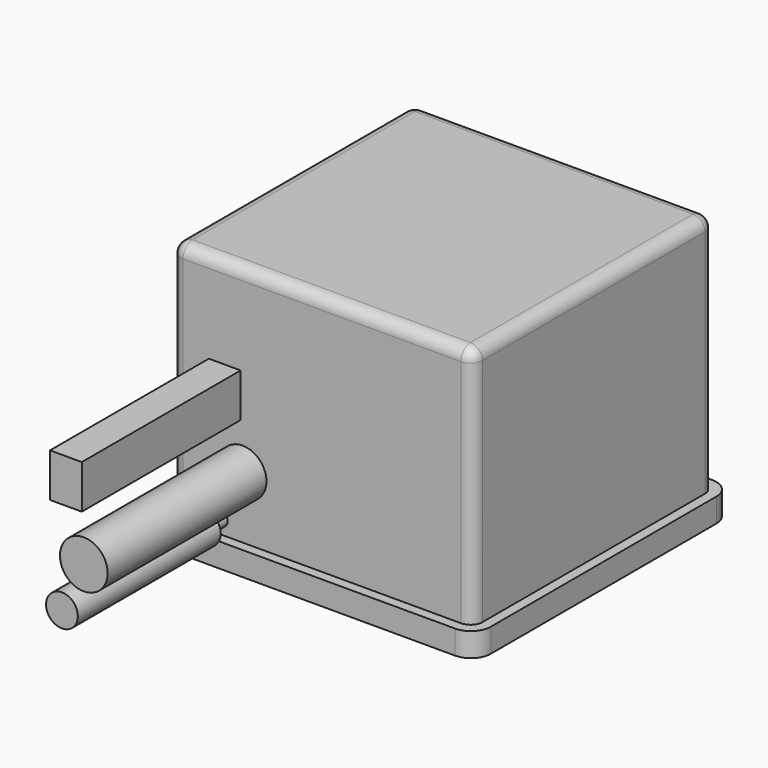
from build123d import *

# Parameters (mm, degrees)
CYLINDER042_R          = 4
CYLINDER042_DEPTH      = 61
CYLINDER042_ROLL_ANGLE = 90
CYLINDER047_R          = 4
CYLINDER047_DEPTH      = 45
CYLINDER047_ROLL_ANGLE = 90
CYLINDER045_R          = 1.75
CYLINDER045_DEPTH      = 31
CYLINDER045_ROLL_ANGLE = 90
CYLINDER046_R          = 4
CYLINDER046_DEPTH      = 45
CYLINDER046_ROLL_ANGLE = 90
CYLINDER043_R          = 6
CYLINDER043_DEPTH      = 63
CYLINDER043_ROLL_ANGLE = 90
BOX038_W               = 8
BOX038_H               = 58
BOX038_DEPTH           = 11
CYLINDER044_R          = 1.75
CYLINDER044_DEPTH      = 23
CYLINDER044_ROLL_ANGLE = 90
BOX040_W               = 81
BOX040_H               = 81
BOX040_DEPTH           = 6
FILLET018008_R         = 5
BOX039_W               = 76
BOX039_H               = 76
BOX039_DEPTH           = 66
FILLET018007_R         = 3


with BuildPart() as cylinder096:
    # Cylinder042 → Cylinder042 (new body)
    with BuildSketch(Plane.XY):
        Circle(CYLINDER042_R)
    extrude(amount=CYLINDER042_DEPTH)


with BuildPart() as cylinder096_1:
    # Cylinder042 roll: moved
    add(cylinder096.part.rotate(Axis((0, 0, 0), (1, 0, 0)), CYLINDER042_ROLL_ANGLE))


with BuildPart() as cylinder096_2:
    # Cylinder042 placement: moved
    add(cylinder096_1.part.moved(Location((-5, 124, 89.6))))


with BuildPart() as cylinder101:
    # Cylinder047 → Cylinder047 (new body)
    with BuildSketch(Plane.XY):
        Circle(CYLINDER047_R)
    extrude(amount=CYLINDER047_DEPTH)


with BuildPart() as cylinder101_1:
    # Cylinder047 roll: moved
    add(cylinder101.part.rotate(Axis((0, 0, 0), (1, 0, 0)), CYLINDER047_ROLL_ANGLE))


with BuildPart() as cylinder101_2:
    # Cylinder047 placement: moved
    add(cylinder101_1.part.moved(Location((-8.5, 124, 71.5))))


with BuildPart() as cylinder099:
    # Cylinder045 → Cylinder045 (new body)
    with BuildSketch(Plane.XY):
        Circle(CYLINDER045_R)
    extrude(amount=CYLINDER045_DEPTH)


with BuildPart() as cylinder099_1:
    # Cylinder045 roll: moved
    add(cylinder099.part.rotate(Axis((0, 0, 0), (1, 0, 0)), CYLINDER045_ROLL_ANGLE))


with BuildPart() as cylinder099_2:
    # Cylinder045 placement: moved
    add(cylinder099_1.part.moved(Location((-8.5, 94, 71.5))))


with BuildPart() as cylinder100:
    # Cylinder046 → Cylinder046 (new body)
    with BuildSketch(Plane.XY):
        Circle(CYLINDER046_R)
    extrude(amount=CYLINDER046_DEPTH)


with BuildPart() as cylinder100_1:
    # Cylinder046 roll: moved
    add(cylinder100.part.rotate(Axis((0, 0, 0), (1, 0, 0)), CYLINDER046_ROLL_ANGLE))


with BuildPart() as cylinder100_2:
    # Cylinder046 placement: moved
    add(cylinder100_1.part.moved(Location((-8.5, -7, 71.5))))


with BuildPart() as cylinder097:
    # Cylinder043 → Cylinder043 (new body)
    with BuildSketch(Plane.XY):
        Circle(CYLINDER043_R)
    extrude(amount=CYLINDER043_DEPTH)


with BuildPart() as cylinder097_1:
    # Cylinder043 roll: moved
    add(cylinder097.part.rotate(Axis((0, 0, 0), (1, 0, 0)), CYLINDER043_ROLL_ANGLE))


with BuildPart() as cylinder097_2:
    # Cylinder043 placement: moved
    add(cylinder097_1.part.moved(Location((-3, 11, 83.5))))


with BuildPart() as cube037:
    # Box038 → Box038 (new body)
    with BuildSketch(Plane(origin=(-11.5, -52, 95), x_dir=(1, 0, 0), z_dir=(0, 0, 1))):
        with Locations((4, 29)):
            Rectangle(BOX038_W, BOX038_H)
    extrude(amount=BOX038_DEPTH)


with BuildPart() as cylinder098:
    # Cylinder044 → Cylinder044 (new body)
    with BuildSketch(Plane.XY):
        Circle(CYLINDER044_R)
    extrude(amount=CYLINDER044_DEPTH)


with BuildPart() as cylinder098_1:
    # Cylinder044 roll: moved
    add(cylinder098.part.rotate(Axis((0, 0, 0), (1, 0, 0)), CYLINDER044_ROLL_ANGLE))


with BuildPart() as cylinder098_2:
    # Cylinder044 placement: moved
    add(cylinder098_1.part.moved(Location((-8.5, 1, 71.5))))


with BuildPart() as fillet018008:
    # Box040 → Box040 (new body)
    with BuildSketch(Plane(origin=(-23.5, -4.5, 63), x_dir=(1, 0, 0), z_dir=(0, 0, 1))):
        with Locations((40.5, 40.5)):
            Rectangle(BOX040_W, BOX040_H)
    extrude(amount=BOX040_DEPTH)

    # Fillet018008
    fillet018008_edges = [fillet018008.edges().sort_by_distance(p)[0] for p in [
        (-23.5, -4.5, 66),
        (-23.5, 76.5, 66),
        (57.5, -4.5, 66),
        (57.5, 76.5, 66),
    ]]
    fillet(fillet018008_edges, radius=FILLET018008_R)


with BuildPart() as fillet018008_1:
    # Fillet018008 placement: moved
    add(fillet018008.part.moved(Location((0, 0, -1))))


with BuildPart() as corte_positivo:
    # Box039 → Box039 (new body)
    with BuildSketch(Plane(origin=(-21, -2, 63), x_dir=(1, 0, 0), z_dir=(0, 0, 1))):
        with Locations((38, 38)):
            Rectangle(BOX039_W, BOX039_H)
    extrude(amount=BOX039_DEPTH)

    # Fillet018007
    fillet018007_edges = [corte_positivo.edges().sort_by_distance(p)[0] for p in [
        (-21, -2, 96),
        (-21, 36, 129),
        (-21, 74, 96),
        (55, -2, 96),
        (55, 36, 129),
        (55, 74, 96),
        (17, -2, 129),
        (17, 74, 129),
    ]]
    fillet(fillet018007_edges, radius=FILLET018007_R)

    # Fusion033: union Fillet018008
    add(fillet018008_1.part)

    # Fusion034: union Cylinder096, Cylinder101, Cylinder099, Cylinder100, Cylinder097, Cube037, Cylinder098
    add(cylinder096_2.part)
    add(cylinder101_2.part)
    add(cylinder099_2.part)
    add(cylinder100_2.part)
    add(cylinder097_2.part)
    add(cube037.part)
    add(cylinder098_2.part)


solid = corte_positivo.part
